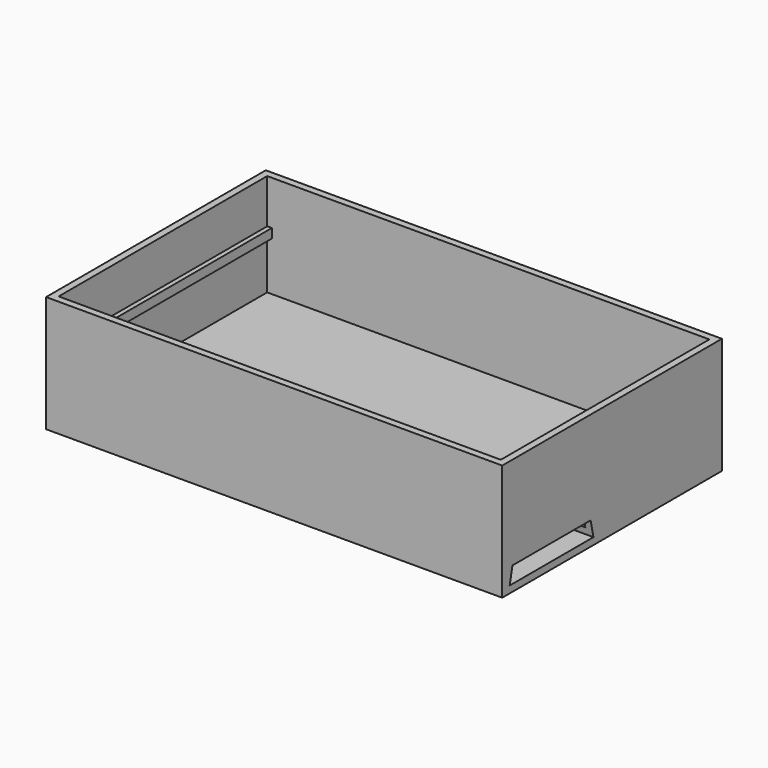
from build123d import *

# Parameters (mm, degrees)
SKETCH010_W     = 98
SKETCH010_H     = 59
PAD007_DEPTH    = 25
SKETCH011_W     = 95
SKETCH011_H     = 56
POCKET002_DEPTH = 22
SKETCH012_W     = 56
SKETCH012_H     = 2
PAD008_DEPTH    = 1
SKETCH013_W     = 56.025157
SKETCH013_H     = 2
PAD009_DEPTH    = 1
POCKET003_DEPTH = 53
SKETCH017_R     = 0.869454
SKETCH017_R_2   = 0.804164
PAD010_DEPTH    = 1


with BuildPart() as part:
    # Sketch010 → Pad007 (new body)
    with BuildSketch(Plane.XY):
        Rectangle(SKETCH010_W, SKETCH010_H)
    extrude(amount=PAD007_DEPTH)

    # Sketch011 (on Face6 of Pad007) → Pocket002 (cut)
    with BuildSketch(Plane.XY.offset(25)):
        Rectangle(SKETCH011_W, SKETCH011_H)
    extrude(amount=-POCKET002_DEPTH, mode=Mode.SUBTRACT)

    # Sketch012 (on Face9 of Pocket002) → Pad008 (join)
    with BuildSketch(Plane.YZ.offset(-47.5)):
        with Locations((0, 14.5)):
            Rectangle(SKETCH012_W, SKETCH012_H)
    extrude(amount=PAD008_DEPTH)

    # Sketch013 (on Face7 of Pad008) → Pad009 (join)
    with BuildSketch(Plane(origin=(47.5, 0, 0), x_dir=(0, -1, 0), z_dir=(-1, 0, 0))):
        with Locations((0.0125785, 14.5)):
            Rectangle(SKETCH013_W, SKETCH013_H)
    extrude(amount=PAD009_DEPTH)

    # Sketch015 (on Face1 of Pad009) → Pocket003 (cut)
    with BuildSketch(Plane.YZ.offset(49)):
        Polygon((-27.5, 1.5), (-26.75, 5), (-5.75, 5), (-5, 1.5), align=None)
    extrude(amount=-POCKET003_DEPTH, mode=Mode.SUBTRACT)

    # Sketch017 (on Face9 of Pocket003) → Pad010 (join)
    with BuildSketch(Plane.XY.offset(1.5)):
        with Locations((-2.011455, -10.80103)):
            Circle(SKETCH017_R)
        with Locations((-2.011455, -22.201292)):
            Circle(SKETCH017_R_2)
    extrude(amount=PAD010_DEPTH)


solid = part.part
